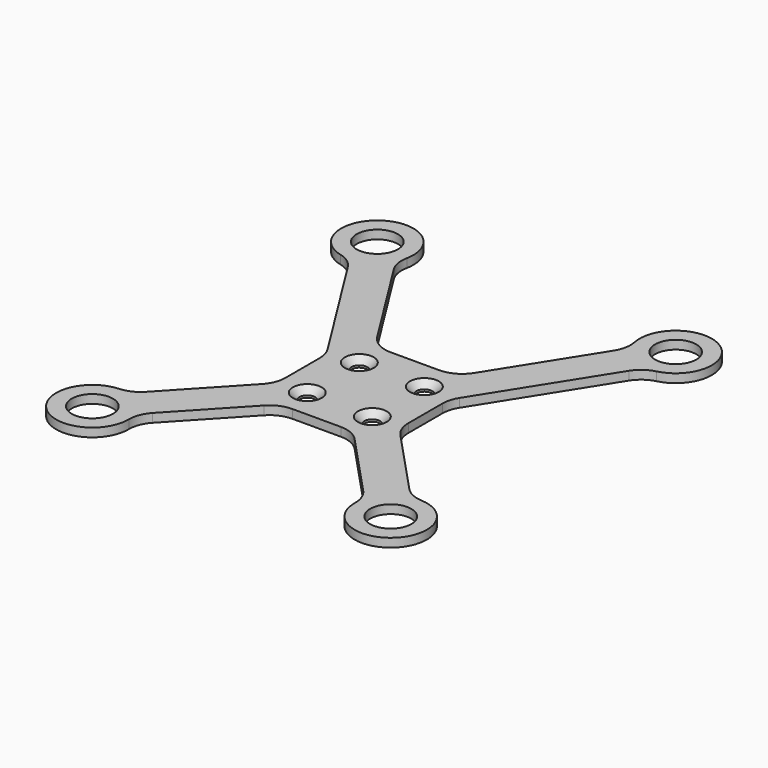
from build123d import *

# Parameters (mm, degrees)
F1_R     = 2.85
F1_R_2   = 1.1
F2_DEPTH = 1.2
F3_R     = 4
F4_SIZE  = 0.9


with BuildPart() as f2:
    # F1 (on Top) → F2 (new body)
    with BuildSketch(Plane.XY):
        with BuildLine():
            Line((-8.5, -7.988706), (-19.519778, -19.779415))
            ThreePointArc((-19.519778, -19.779415), (-24.064093, -28.302939), (-15.866839, -23.193508))
            Line((-15.866839, -23.193508), (-5.078098, -11.65))
            Line((-5.078098, -11.65), (5.078098, -11.65))
            Line((5.078098, -11.65), (15.866839, -23.193508))
            ThreePointArc((15.866839, -23.193508), (24.064093, -28.302939), (19.519778, -19.779415))
            Line((19.519778, -19.779415), (8.5, -7.988706))
            Line((8.5, -7.988706), (8.5, 0.657413))
            Line((8.5, 0.657413), (20.458776, 19.653658))
            ThreePointArc((20.458776, 19.653658), (23.313776, 28.881347), (16.227429, 22.317434))
            Line((16.227429, 22.317434), (5.545858, 5.35))
            Line((5.545858, 5.35), (-5.545858, 5.35))
            Line((-5.545858, 5.35), (-16.227429, 22.317434))
            ThreePointArc((-16.227429, 22.317434), (-23.313776, 28.881347), (-20.458776, 19.653658))
            Line((-20.458776, 19.653658), (-8.5, 0.657413))
            Line((-8.5, 0.657413), (-8.5, -7.988706))
        make_face()
        with Locations((-20.65, -24.65)):
            Circle(F1_R, mode=Mode.SUBTRACT)
        with Locations((-4.5, -7.65)):
            Circle(F1_R_2, mode=Mode.SUBTRACT)
        with Locations((20.65, -24.65)):
            Circle(F1_R, mode=Mode.SUBTRACT)
        with Locations((4.5, -7.65)):
            Circle(F1_R_2, mode=Mode.SUBTRACT)
        with Locations((-4.5, 1.35)):
            Circle(F1_R_2, mode=Mode.SUBTRACT)
        with Locations((-20.65, 24.65)):
            Circle(F1_R, mode=Mode.SUBTRACT)
        with Locations((4.5, 1.35)):
            Circle(F1_R_2, mode=Mode.SUBTRACT)
        with Locations((20.65, 24.65)):
            Circle(F1_R, mode=Mode.SUBTRACT)
    extrude(amount=F2_DEPTH)

    # F3
    f3_edges = [f2.edges().sort_by_distance(p)[0] for p in [
        (-5.545858, 5.35, 0.6),
        (5.545858, 5.35, 0.6),
        (-16.227429, 22.317434, 0.6),
        (-20.458776, 19.653658, 0.6),
        (16.227429, 22.317434, 0.6),
        (20.458776, 19.653658, 0.6),
        (8.5, 0.657413, 0.6),
        (8.5, -7.988706, 0.6),
        (19.519778, -19.779415, 0.6),
        (15.866839, -23.193508, 0.6),
        (5.078098, -11.65, 0.6),
        (-5.078098, -11.65, 0.6),
        (-15.866839, -23.193508, 0.6),
        (-8.5, 0.657413, 0.6),
        (-8.5, -7.988706, 0.6),
        (-19.519778, -19.779415, 0.6),
    ]]
    fillet(f3_edges, radius=F3_R)

    # F4
    f4_edges = [f2.edges().sort_by_distance(p)[0] for p in [
        (-5.6, 1.35, 1.2),
        (3.4, 1.35, 1.2),
        (3.4, -7.65, 1.2),
        (-5.6, -7.65, 1.2),
    ]]
    chamfer(f4_edges, length=F4_SIZE)


solid = f2.part
